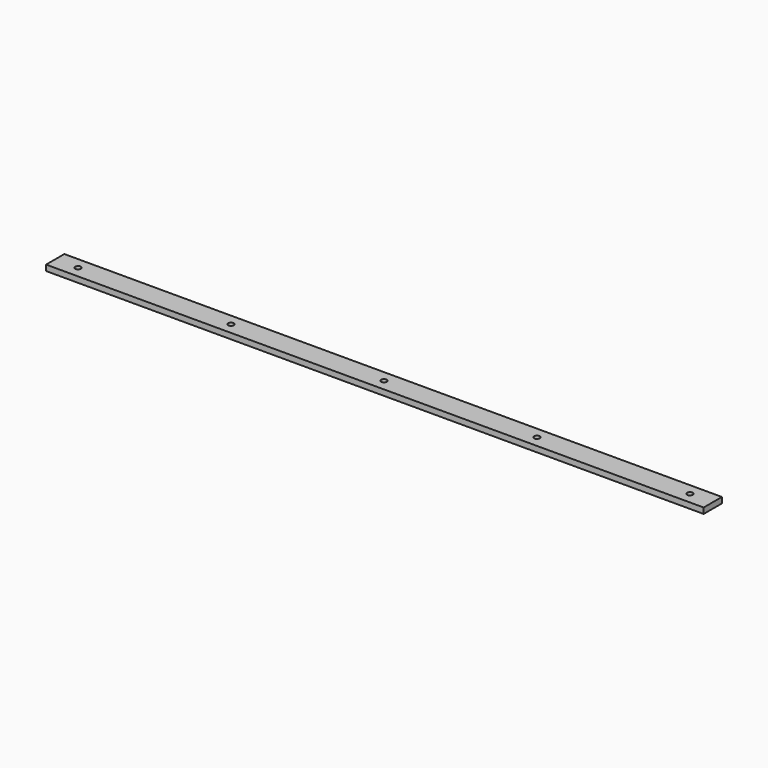
from build123d import *

# Parameters (mm, degrees)
F0_W     = 731.52
F0_H     = 25.4
F0_R     = 3.175
F1_DEPTH = 6.35


with BuildPart() as f1:
    # F0 (on Top) → F1 (new body)
    with BuildSketch(Plane.XY):
        Rectangle(F0_W, F0_H)
        with Locations((-340.36, 0)):
            Circle(F0_R, mode=Mode.SUBTRACT)
        with Locations((-170.18, 0)):
            Circle(F0_R, mode=Mode.SUBTRACT)
        Circle(F0_R, mode=Mode.SUBTRACT)
        with Locations((170.18, 0)):
            Circle(F0_R, mode=Mode.SUBTRACT)
        with Locations((340.36, 0)):
            Circle(F0_R, mode=Mode.SUBTRACT)
    extrude(amount=F1_DEPTH)


solid = f1.part
